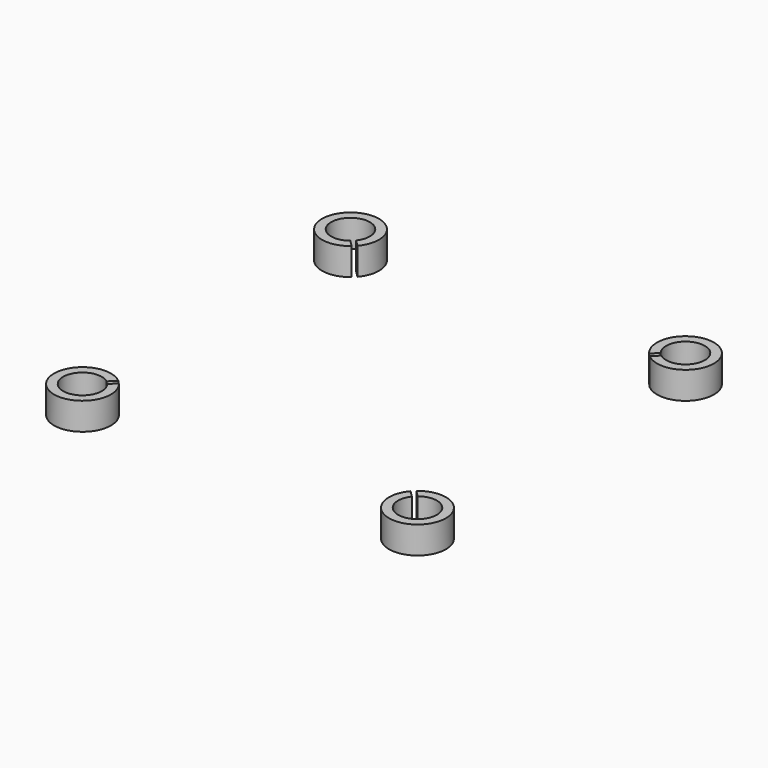
from build123d import *

# Parameters (mm, degrees)
EXTRUDE_DEPTH    = 6
EXTRUDE001_DEPTH = 6
EXTRUDE002_DEPTH = 6
EXTRUDE003_DEPTH = 6


with BuildPart() as extrude_body:
    # Face → Extrude (new body)
    with BuildSketch(Plane(origin=(-36.885616, 36.885616, 0), x_dir=(0, 1, 0), z_dir=(0, 0, 1))):
        with BuildLine():
            Line((-2.746844, -3.453951), (-4.167763, -4.87487))
            ThreePointArc((-4.167763, -4.87487), (4.303354, 4.303354), (-4.87487, -4.167763))
            Line((-4.87487, -4.167763), (-3.453951, -2.746844))
            ThreePointArc((-3.453951, -2.746844), (2.88914, 2.88914), (-2.746844, -3.453951))
        make_face()
    extrude(amount=EXTRUDE_DEPTH)


with BuildPart() as extrude001:
    # Face001 → Extrude001 (new body)
    with BuildSketch(Plane(origin=(36.885616, 36.885616, 0), x_dir=(0, -1, 0), z_dir=(0, 0, -1))):
        with BuildLine():
            Line((2.746844, 3.453951), (4.167763, 4.87487))
            ThreePointArc((4.167763, 4.87487), (-4.303354, -4.303354), (4.87487, 4.167763))
            Line((4.87487, 4.167763), (3.453951, 2.746844))
            ThreePointArc((3.453951, 2.746844), (-2.88914, -2.88914), (2.746844, 3.453951))
        make_face()
    extrude(amount=-EXTRUDE001_DEPTH)


with BuildPart() as extrude002:
    # Face002 → Extrude002 (new body)
    with BuildSketch(Plane(origin=(36.885616, -36.885616, 0), x_dir=(0, 1, 0), z_dir=(0, 0, 1))):
        with BuildLine():
            Line((2.746844, 3.453951), (4.167763, 4.87487))
            ThreePointArc((4.167763, 4.87487), (-4.303354, -4.303354), (4.87487, 4.167763))
            Line((4.87487, 4.167763), (3.453951, 2.746844))
            ThreePointArc((3.453951, 2.746844), (-2.88914, -2.88914), (2.746844, 3.453951))
        make_face()
    extrude(amount=EXTRUDE002_DEPTH)


with BuildPart() as extrude003:
    # Face003 → Extrude003 (new body)
    with BuildSketch(Plane(origin=(-36.885616, -36.885616, 0), x_dir=(0, -1, 0), z_dir=(0, 0, -1))):
        with BuildLine():
            Line((-2.746844, -3.453951), (-4.167763, -4.87487))
            ThreePointArc((-4.167763, -4.87487), (4.303354, 4.303354), (-4.87487, -4.167763))
            Line((-4.87487, -4.167763), (-3.453951, -2.746844))
            ThreePointArc((-3.453951, -2.746844), (2.88914, 2.88914), (-2.746844, -3.453951))
        make_face()
    extrude(amount=-EXTRUDE003_DEPTH)


solid = Compound([extrude_body.part, extrude001.part, extrude002.part, extrude003.part])
